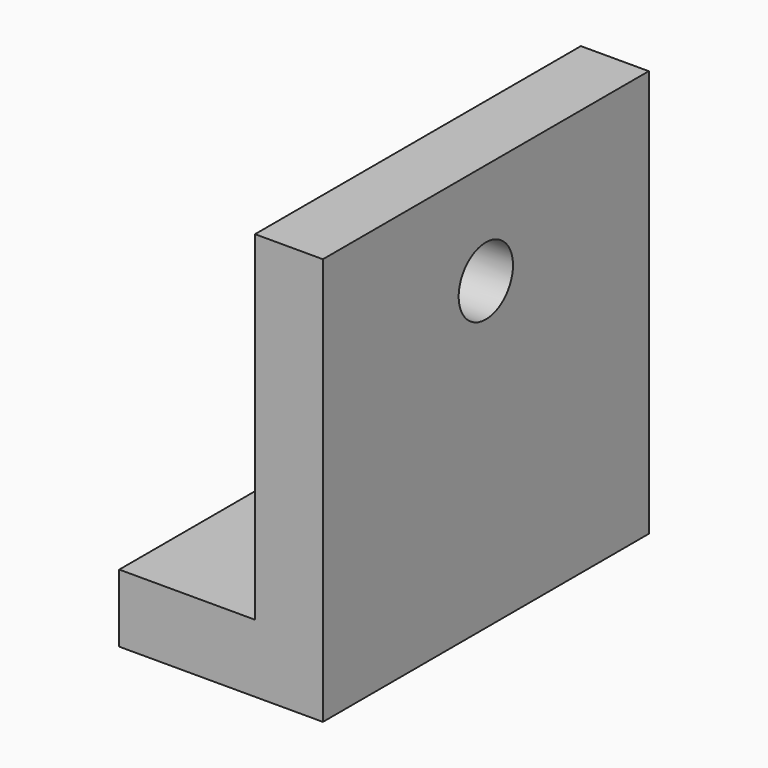
from build123d import *

# Parameters (mm, degrees)
F1_DEPTH = 76.2
F2_R     = 12.7
F3_DEPTH = 76.201
F5_DEPTH = 50.8
F6_R     = 19.05
F6_R_2   = 12.7
F7_DEPTH = 6.35


with BuildPart() as f1:
    # F0 (on Front) → F1 (new body, symmetric)
    with BuildSketch(Plane.XZ):
        Polygon((-25.4, 152.4), (-25.4, 25.4), (-76.2, 25.4), (-76.2, 0), (0, 0), (0, 152.4), align=None)
    extrude(amount=F1_DEPTH, both=True)

    # F2 (on face) → F3 (cut, through all)
    with BuildSketch(Plane.YZ):
        with Locations((0, 114.3)):
            Circle(F2_R)
    extrude(amount=-F3_DEPTH, mode=Mode.SUBTRACT)

    # F4 (on face) → F5 (cut)
    with BuildSketch(Plane.XY.offset(25.4)):
        with BuildLine():
            Line((-76.2, 15.650802), (-76.2, 2.950802))
            Line((-76.2, 2.950802), (-76.2, -9.749198))
            Line((-76.2, -9.749198), (-63.5, -9.749198))
            ThreePointArc((-63.5, -9.749198), (-50.8, 2.950802), (-63.5, 15.650802))
            Line((-63.5, 15.650802), (-76.2, 15.650802))
        make_face()
    extrude(amount=-F5_DEPTH, mode=Mode.SUBTRACT)

    # F6 (on face) → F7 (cut)
    with BuildSketch(Plane(origin=(-25.4, 0, 0), x_dir=(0, -1, 0), z_dir=(-1, 0, 0))):
        with Locations((0, 114.3)):
            Circle(F6_R)
        with Locations((0, 114.3)):
            Circle(F6_R_2, mode=Mode.SUBTRACT)
    extrude(amount=-F7_DEPTH, mode=Mode.SUBTRACT)


solid = f1.part
